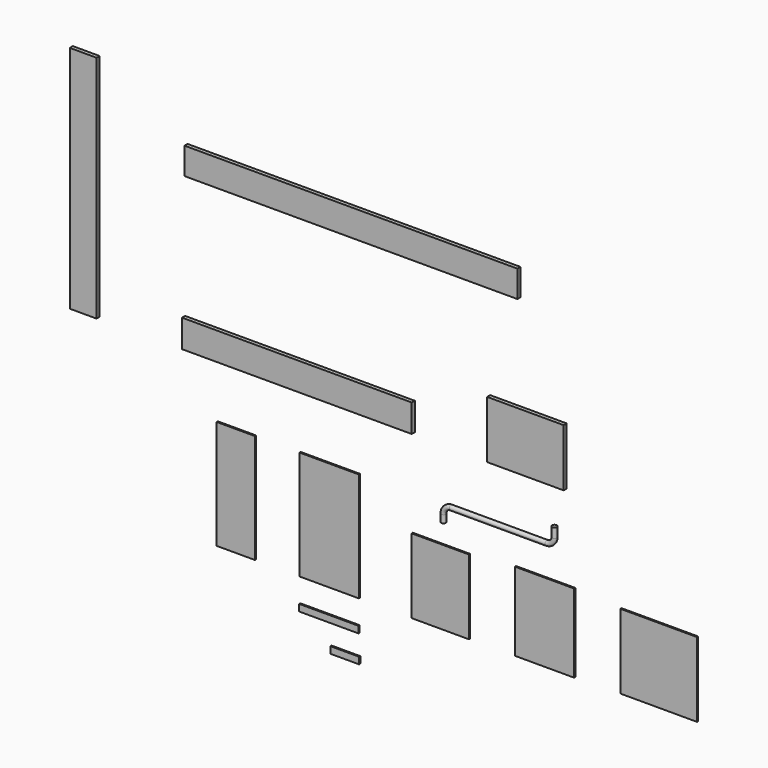
from build123d import *

# Parameters (mm, degrees)
F0_R       = 12.4798531306
F1_DEPTH   = 500
F2_W       = 400
F2_H       = 300
F3_DEPTH   = 20
F4_W       = 1200
F4_H       = 145
F5_DEPTH   = 20
F6_W       = 1740
F6_H       = 140
F7_DEPTH   = 20
F6_W_2     = 140
F6_H_2     = 1200
F8_DEPTH   = 20
F9_W       = 310
F9_H       = 570
F10_DEPTH  = 7.5
F11_W      = 200
F11_H      = 570
F12_DEPTH  = 7.5
F13_W      = 310
F13_H      = 35
F14_DEPTH  = 7.5
F15_W      = 300
F15_H      = 390
F16_DEPTH  = 7.5
F17_W      = 310
F17_H      = 410
F18_DEPTH  = 7.5
F19_W      = 400
F19_H      = 390
F20_DEPTH  = 7.5
F1_FACE_R  = 12.4798531306
F1_FACE1_R = 12.4798531306
F24_W      = 150
F24_H      = 35
F25_DEPTH  = 7.5


with BuildPart() as f1:
    # F0 (on Right) → F1 (new body)
    with BuildSketch(Plane.YZ):
        Circle(F0_R)
    extrude(amount=F1_DEPTH)

    # F22: sweep along a path in F21
    with BuildLine(Plane.XZ) as f22_path:
        ThreePointArc((0, 0), (-28.2842712475, -11.7157287525), (-40, -40))
        Line((-40, -40), (-40, -80))
    # F1_face (on face) → F22 (sweep)
    with BuildSketch(Plane(origin=(0, 0, 0), x_dir=(0, 1, 0), z_dir=(-1, 0, 0))):
        Circle(F1_FACE_R)
    sweep(path=f22_path.line)

    # F23: sweep along a path in F21
    with BuildLine(Plane.XZ) as f23_path:
        ThreePointArc((500, 0), (528.2842712475, 11.7157287525), (540, 40))
        Line((540, 40), (540, 90))
    # F1_face1 (on face) → F23 (sweep)
    with BuildSketch(Plane.YZ.offset(500)):
        Circle(F1_FACE1_R)
    sweep(path=f23_path.line)


with BuildPart() as f3:
    # F2 (on Front) → F3 (new body)
    with BuildSketch(Plane.XZ):
        with Locations((403.7673175335, 433.2379341125)):
            Rectangle(F2_W, F2_H)
    extrude(amount=F3_DEPTH)


with BuildPart() as f5:
    # F4 (on Front) → F5 (new body)
    with BuildSketch(Plane.XZ):
        with Locations((-790.3555542231, 356.8016982079)):
            Rectangle(F4_W, F4_H)
    extrude(amount=F5_DEPTH)


with BuildPart() as f7:
    # F6 (on Front) → F7 (new body)
    with BuildSketch(Plane.XZ):
        with Locations((-508.0117034912, 1154.6680629253)):
            Rectangle(F6_W, F6_H)
    extrude(amount=F7_DEPTH)


with BuildPart() as f8:
    # F6 (on Front) → F8 (new body)
    with BuildSketch(Plane.XZ):
        with Locations((-1907.0119190216, 879.6680629253)):
            Rectangle(F6_W_2, F6_H_2)
    extrude(amount=F8_DEPTH)


with BuildPart() as f10:
    # F9 (on Front) → F10 (new body)
    with BuildSketch(Plane.XZ):
        with Locations((-631.1330509186, -285)):
            Rectangle(F9_W, F9_H)
    extrude(amount=F10_DEPTH)


with BuildPart() as f12:
    # F11 (on Front) → F12 (new body)
    with BuildSketch(Plane.XZ):
        with Locations((-1119.5944786072, -285)):
            Rectangle(F11_W, F11_H)
    extrude(amount=F12_DEPTH)


with BuildPart() as f14:
    # F13 (on Front) → F14 (new body)
    with BuildSketch(Plane.XZ):
        with Locations((-632.9960215092, -714.2890524864)):
            Rectangle(F13_W, F13_H)
    extrude(amount=F14_DEPTH)


with BuildPart() as f16:
    # F15 (on Front) → F16 (new body)
    with BuildSketch(Plane.XZ):
        with Locations((-50.6044387817, -376.1068511009)):
            Rectangle(F15_W, F15_H)
    extrude(amount=F16_DEPTH)


with BuildPart() as f18:
    # F17 (on Front) → F18 (new body)
    with BuildSketch(Plane.XZ):
        with Locations((494.0304470062, -363.9005255699)):
            Rectangle(F17_W, F17_H)
    extrude(amount=F18_DEPTH)


with BuildPart() as f20:
    # F19 (on Front) → F20 (new body)
    with BuildSketch(Plane.XZ):
        with Locations((1090.9248709679, -368.4208321571)):
            Rectangle(F19_W, F19_H)
    extrude(amount=F20_DEPTH)


with BuildPart() as f25:
    # F24 (on Front) → F25 (new body)
    with BuildSketch(Plane.XZ):
        with Locations((-550.097566843, -855.5714654922)):
            Rectangle(F24_W, F24_H)
    extrude(amount=F25_DEPTH)


solid = Compound([f1.part, f3.part, f5.part, f7.part, f8.part, f10.part, f12.part, f14.part, f16.part, f18.part, f20.part, f25.part])
